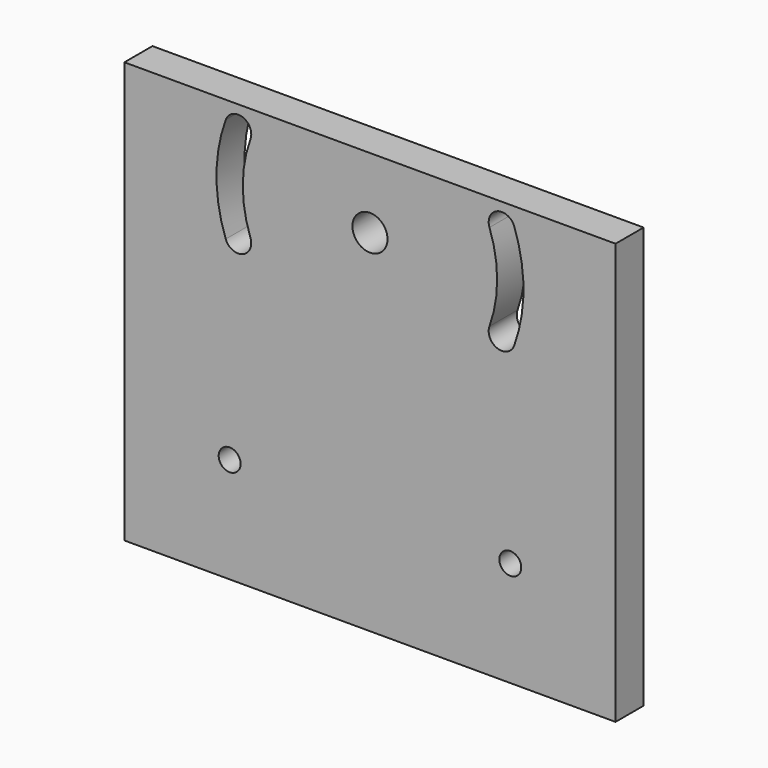
from build123d import *

# Parameters (mm, degrees)
F0_W     = 184.15
F0_H     = 152.4
F0_R     = 6.35
F1_DEPTH = 12.7
F3_DEPTH = 12.701
F6_D     = 7.9375


with BuildPart() as f1:
    # F0 (on Front) → F1 (new body)
    with BuildSketch(Plane.XZ):
        with Locations((-3.175, -50.8)):
            Rectangle(F0_W, F0_H)
        Circle(F0_R, mode=Mode.SUBTRACT)
    extrude(amount=F1_DEPTH)

    # F2 (on face) → F3 (cut, through all)
    with BuildSketch(Plane.XZ.offset(12.7)):
        with BuildLine():
            ThreePointArc((52.211671, -19.003494), (55.5625, 0), (52.211671, 19.003494))
            ThreePointArc((52.211671, 19.003494), (46.107514, 21.849909), (43.261099, 15.745752))
            ThreePointArc((43.261099, 15.745752), (46.0375, 0), (43.261099, -15.745752))
            ThreePointArc((43.261099, -15.745752), (46.107514, -21.849909), (52.211671, -19.003494))
        make_face()
    extrude(amount=-F3_DEPTH, mode=Mode.SUBTRACT)

    # F4: F1 across plane


with BuildPart() as f1_1:
    add(f1.part)
    add(f1.part.mirror(Plane.YZ), mode=Mode.INTERSECT)

    # F6 (through all)
    with Locations(Plane.XZ.offset(12.7)):
        with Locations((50.8, -88.9), (-50.8, -88.9)):
            Hole(F6_D / 2)


solid = f1_1.part
